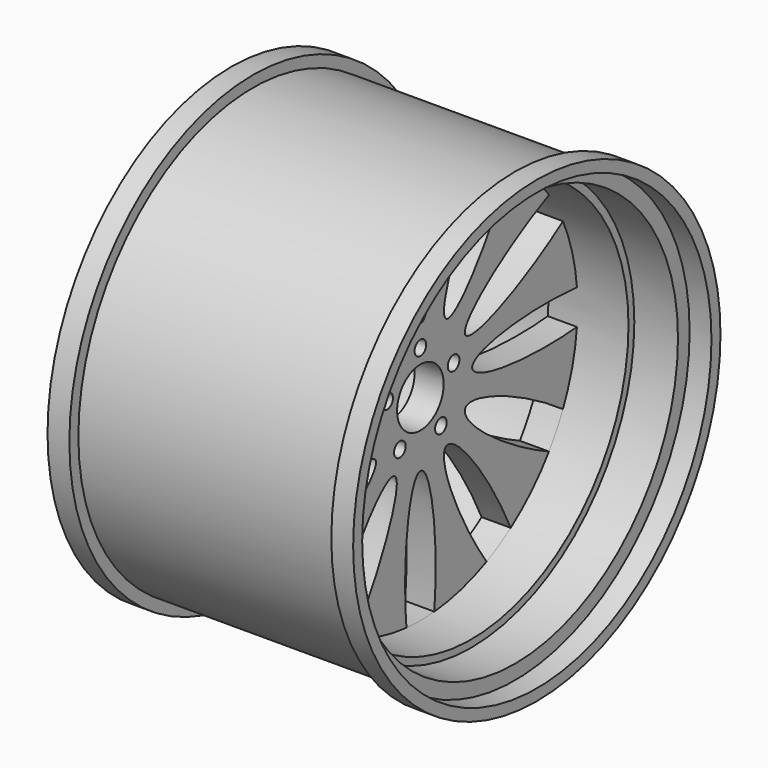
from build123d import *

# Parameters (mm, degrees)
F0_R      = 190.5
F1_DEPTH  = 228.6
F2_R      = 200.3421162918
F2_R_2    = 190.5
F3_DEPTH  = 19.05
F4_R      = 177.8
F5_DEPTH  = 38.1
F6_R      = 171.45
F7_DEPTH  = 44.45
F8_R      = 200.3425
F8_R_2    = 190.5
F9_DEPTH  = 19.05
F11_R     = 177.8
F12_DEPTH = 120.65
F13_R     = 25.4
F14_DEPTH = 25.4
F15_R     = 6.35
F16_DEPTH = 25.4
F18_DEPTH = 25.4


with BuildPart() as f1:
    # F0 (on Right) → F1 (new body)
    with BuildSketch(Plane.YZ):
        Circle(F0_R)
    extrude(amount=F1_DEPTH)

    # F4 (on face) → F5 (cut)
    with BuildSketch(Plane.YZ.offset(228.6)):
        Circle(F4_R)
    extrude(amount=-F5_DEPTH, mode=Mode.SUBTRACT)

    # F6 (on face) → F7 (cut)
    with BuildSketch(Plane.YZ.offset(190.5)):
        Circle(F6_R)
    extrude(amount=-F7_DEPTH, mode=Mode.SUBTRACT)

    # F11 (on Right) → F12 (cut)
    with BuildSketch(Plane.YZ):
        Circle(F11_R)
    extrude(amount=F12_DEPTH, mode=Mode.SUBTRACT)

    # F13 (on face) → F14 (cut)
    with BuildSketch(Plane.YZ.offset(146.05)):
        Circle(F13_R)
    extrude(amount=-F14_DEPTH, mode=Mode.SUBTRACT)

    # F15 (on face) → F16 (cut)
    with BuildSketch(Plane.YZ.offset(146.05)):
        with Locations((0, 38.1)):
            Circle(F15_R)
        with Locations((-36.2352532708, 11.7735474857)):
            Circle(F15_R)
        with Locations((-22.3946181123, -30.8235474857)):
            Circle(F15_R)
        with Locations((22.3946181123, -30.8235474857)):
            Circle(F15_R)
        with Locations((36.2352532708, 11.7735474857)):
            Circle(F15_R)
    extrude(amount=-F16_DEPTH, mode=Mode.SUBTRACT)

    # F17 (on face) → F18 (cut)
    with BuildSketch(Plane.YZ.offset(146.05)):
        with BuildLine():
            add(Edge.make_bspline(
                [(-15.2261207957, 170.7725614539), (-25.8169270497, 56.49548769), (0, 56.49548769), (25.8169270497, 56.49548769), (15.2261207957, 170.7725614539)],
                knots=[4.2896857811, 4.2896857811, 4.2896857811, 6.2831853072, 6.2831853072, 8.2766848333, 8.2766848333, 8.2766848333], degree=2, weights=[1, 0.5430344273, 1, 0.5430344273, 1]))
            ThreePointArc((15.2261207957, 170.7725614539), (0, 171.45), (-15.2261207957, 170.7725614539))
        make_face()
        with BuildLine():
            ThreePointArc((-72.2000733168, 155.5064368862), (-85.725, 148.4800554788), (-98.5724881371, 140.2803160905))
            add(Edge.make_bspline(
                [(-98.5724881371, 140.2803160905), (-50.6058585177, 36.0180640139), (-28.247743845, 48.9265275387), (-5.8896291723, 61.8349910635), (-72.2000733168, 155.5064368862)],
                knots=[4.2896857811, 4.2896857811, 4.2896857811, 6.2831853072, 6.2831853072, 8.2766848333, 8.2766848333, 8.2766848333], degree=2, weights=[1, 0.5430344273, 1, 0.5430344273, 1]))
        make_face()
        with BuildLine():
            ThreePointArc((-140.2803160905, 98.5724881371), (-148.4800554788, 85.725), (-155.5064368862, 72.2000733168))
            add(Edge.make_bspline(
                [(-155.5064368862, 72.2000733168), (-61.8349910635, 5.8896291723), (-48.9265275387, 28.247743845), (-36.0180640139, 50.6058585177), (-140.2803160905, 98.5724881371)],
                knots=[4.2896857811, 4.2896857811, 4.2896857811, 6.2831853072, 6.2831853072, 8.2766848333, 8.2766848333, 8.2766848333], degree=2, weights=[1, 0.5430344273, 1, 0.5430344273, 1]))
        make_face()
        with BuildLine():
            ThreePointArc((-170.7725614539, 15.2261207957), (-171.45, 0), (-170.7725614539, -15.2261207957))
            add(Edge.make_bspline(
                [(-170.7725614539, -15.2261207957), (-56.49548769, -25.8169270497), (-56.49548769, 0), (-56.49548769, 25.8169270497), (-170.7725614539, 15.2261207957)],
                knots=[4.2896857811, 4.2896857811, 4.2896857811, 6.2831853072, 6.2831853072, 8.2766848333, 8.2766848333, 8.2766848333], degree=2, weights=[1, 0.5430344273, 1, 0.5430344273, 1]))
        make_face()
        with BuildLine():
            ThreePointArc((-155.5064368862, -72.2000733168), (-148.4800554788, -85.725), (-140.2803160905, -98.5724881371))
            add(Edge.make_bspline(
                [(-140.2803160905, -98.5724881371), (-36.0180640139, -50.6058585177), (-48.9265275387, -28.247743845), (-61.8349910635, -5.8896291723), (-155.5064368862, -72.2000733168)],
                knots=[4.2896857811, 4.2896857811, 4.2896857811, 6.2831853072, 6.2831853072, 8.2766848333, 8.2766848333, 8.2766848333], degree=2, weights=[1, 0.5430344273, 1, 0.5430344273, 1]))
        make_face()
        with BuildLine():
            ThreePointArc((-98.5724881371, -140.2803160905), (-85.725, -148.4800554788), (-72.2000733168, -155.5064368862))
            add(Edge.make_bspline(
                [(-72.2000733168, -155.5064368862), (-5.8896291723, -61.8349910635), (-28.247743845, -48.9265275387), (-50.6058585177, -36.0180640139), (-98.5724881371, -140.2803160905)],
                knots=[4.2896857811, 4.2896857811, 4.2896857811, 6.2831853072, 6.2831853072, 8.2766848333, 8.2766848333, 8.2766848333], degree=2, weights=[1, 0.5430344273, 1, 0.5430344273, 1]))
        make_face()
        with BuildLine():
            ThreePointArc((-15.2261207957, -170.7725614539), (0, -171.45), (15.2261207957, -170.7725614539))
            add(Edge.make_bspline(
                [(15.2261207957, -170.7725614539), (25.8169270497, -56.49548769), (0, -56.49548769), (-25.8169270497, -56.49548769), (-15.2261207957, -170.7725614539)],
                knots=[4.2896857811, 4.2896857811, 4.2896857811, 6.2831853072, 6.2831853072, 8.2766848333, 8.2766848333, 8.2766848333], degree=2, weights=[1, 0.5430344273, 1, 0.5430344273, 1]))
        make_face()
        with BuildLine():
            ThreePointArc((72.2000733168, -155.5064368862), (85.725, -148.4800554788), (98.5724881371, -140.2803160905))
            add(Edge.make_bspline(
                [(98.5724881371, -140.2803160905), (50.6058585177, -36.0180640139), (28.247743845, -48.9265275387), (5.8896291723, -61.8349910635), (72.2000733168, -155.5064368862)],
                knots=[4.2896857811, 4.2896857811, 4.2896857811, 6.2831853072, 6.2831853072, 8.2766848333, 8.2766848333, 8.2766848333], degree=2, weights=[1, 0.5430344273, 1, 0.5430344273, 1]))
        make_face()
        with BuildLine():
            ThreePointArc((140.2803160905, -98.5724881371), (148.4800554788, -85.725), (155.5064368862, -72.2000733168))
            add(Edge.make_bspline(
                [(155.5064368862, -72.2000733168), (61.8349910635, -5.8896291723), (48.9265275387, -28.247743845), (36.0180640139, -50.6058585177), (140.2803160905, -98.5724881371)],
                knots=[4.2896857811, 4.2896857811, 4.2896857811, 6.2831853072, 6.2831853072, 8.2766848333, 8.2766848333, 8.2766848333], degree=2, weights=[1, 0.5430344273, 1, 0.5430344273, 1]))
        make_face()
        with BuildLine():
            ThreePointArc((170.7725614539, -15.2261207957), (171.45, 0), (170.7725614539, 15.2261207957))
            add(Edge.make_bspline(
                [(170.7725614539, 15.2261207957), (56.49548769, 25.8169270497), (56.49548769, 0), (56.49548769, -25.8169270497), (170.7725614539, -15.2261207957)],
                knots=[4.2896857811, 4.2896857811, 4.2896857811, 6.2831853072, 6.2831853072, 8.2766848333, 8.2766848333, 8.2766848333], degree=2, weights=[1, 0.5430344273, 1, 0.5430344273, 1]))
        make_face()
        with BuildLine():
            ThreePointArc((155.5064368862, 72.2000733168), (148.4800554788, 85.725), (140.2803160905, 98.5724881371))
            add(Edge.make_bspline(
                [(140.2803160905, 98.5724881371), (36.0180640139, 50.6058585177), (48.9265275387, 28.247743845), (61.8349910635, 5.8896291723), (155.5064368862, 72.2000733168)],
                knots=[4.2896857811, 4.2896857811, 4.2896857811, 6.2831853072, 6.2831853072, 8.2766848333, 8.2766848333, 8.2766848333], degree=2, weights=[1, 0.5430344273, 1, 0.5430344273, 1]))
        make_face()
        with BuildLine():
            ThreePointArc((98.5724881371, 140.2803160905), (85.725, 148.4800554788), (72.2000733168, 155.5064368862))
            add(Edge.make_bspline(
                [(72.2000733168, 155.5064368862), (5.8896291723, 61.8349910635), (28.247743845, 48.9265275387), (50.6058585177, 36.0180640139), (98.5724881371, 140.2803160905)],
                knots=[4.2896857811, 4.2896857811, 4.2896857811, 6.2831853072, 6.2831853072, 8.2766848333, 8.2766848333, 8.2766848333], degree=2, weights=[1, 0.5430344273, 1, 0.5430344273, 1]))
        make_face()
    extrude(amount=-F18_DEPTH, mode=Mode.SUBTRACT)


with BuildPart() as f3:
    # F2 (on face) → F3 (new body)
    with BuildSketch(Plane.YZ.offset(228.6)):
        Circle(F2_R)
        Circle(F2_R_2, mode=Mode.SUBTRACT)
    extrude(amount=F3_DEPTH)


with BuildPart() as f9:
    # F8 (on face) → F9 (new body)
    with BuildSketch(Plane(origin=(0, 0, 0), x_dir=(0, -1, 0), z_dir=(-1, 0, 0))):
        Circle(F8_R)
        Circle(F8_R_2, mode=Mode.SUBTRACT)
    extrude(amount=F9_DEPTH)


solid = Compound([f1.part, f3.part, f9.part])
